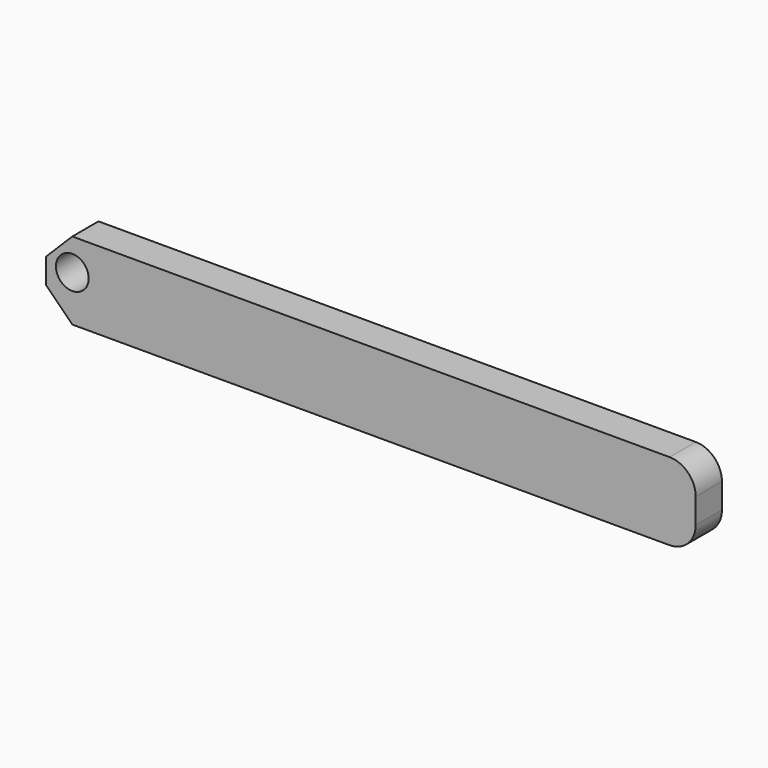
from build123d import *

# Parameters (mm, degrees)
F0_W     = 125.92558
F0_H     = 15.03172
F1_DEPTH = 6.35
F2_R     = 5.08
F3_SIZE  = 5.08
F5_D     = 6.35


with BuildPart() as f1:
    # F0 (on Front) → F1 (new body)
    with BuildSketch(Plane.XZ):
        with Locations((15.213812, 20.512795)):
            Rectangle(F0_W, F0_H)
    extrude(amount=F1_DEPTH)

    # F2
    f2_edges = [f1.edges().sort_by_distance(p)[0] for p in [
        (78.176602, -3.175, 28.028655),
        (78.176602, -3.175, 12.996935),
    ]]
    fillet(f2_edges, radius=F2_R)

    # F3
    f3_edges = [f1.edges().sort_by_distance(p)[0] for p in [
        (-47.748978, -3.175, 28.028655),
        (-47.748978, -3.175, 12.996935),
    ]]
    chamfer(f3_edges, length=F3_SIZE)

    # F5 (through all)
    with Locations(Plane.XZ.offset(6.35)):
        with Locations((-42.668978, 21.895384)):
            Hole(F5_D / 2)


solid = f1.part
